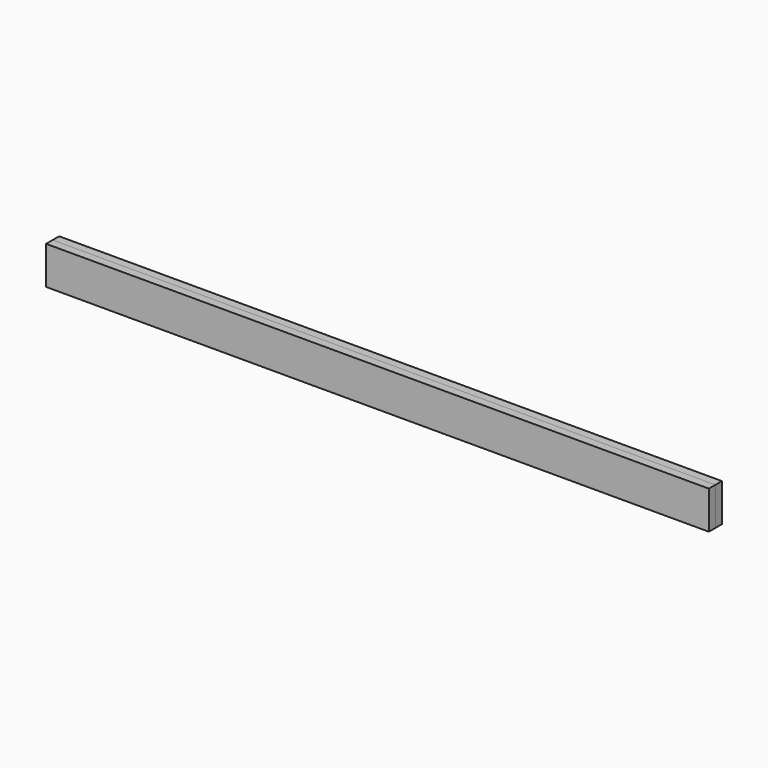
from build123d import *

# Parameters (mm, degrees)
F0_W     = 3088
F0_H     = 38.1
F1_DEPTH = 88.45
F2_DEPTH = 88.45


with BuildPart() as f1:
    # F0 (on Top) → F1 (new body, symmetric)
    with BuildSketch(Plane.XY):
        with Locations((0, 19.05)):
            Rectangle(F0_W, F0_H)
    extrude(amount=F1_DEPTH, both=True)


with BuildPart() as f2:
    # F0 (on Top) → F2 (new body, symmetric)
    with BuildSketch(Plane.XY):
        with Locations((0, -19.05)):
            Rectangle(F0_W, F0_H)
    extrude(amount=F2_DEPTH, both=True)


solid = Compound([f1.part, f2.part])
